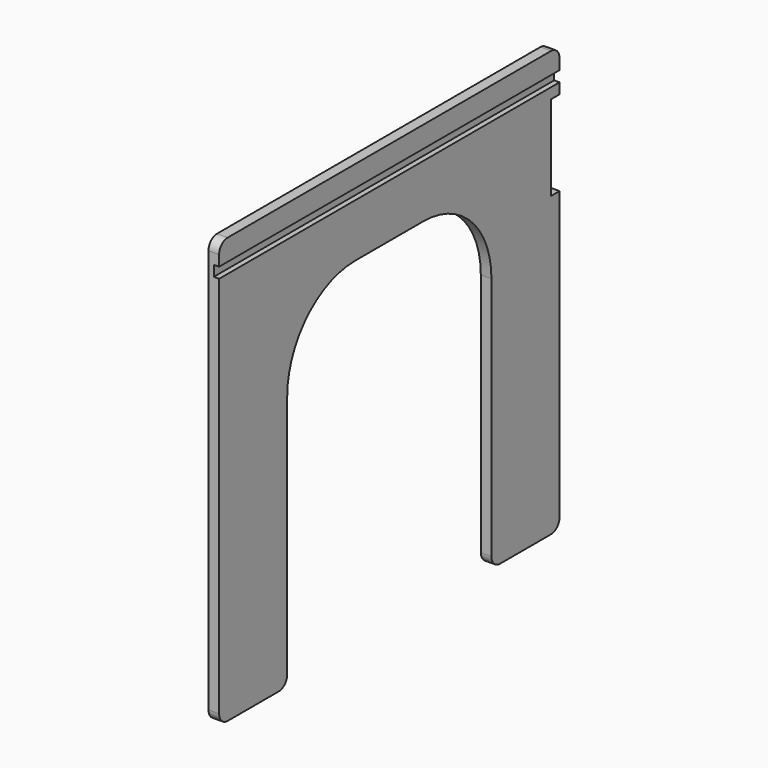
from build123d import *

# Parameters (mm, degrees)
F1_DEPTH = 12.7
F2_W     = 508
F2_H     = 12.7
F3_DEPTH = 6.35


with BuildPart() as f1:
    # F0 (on Right) → F1 (new body)
    with BuildSketch(Plane.YZ):
        with BuildLine():
            ThreePointArc((-101.6, 12.7), (-97.880256, 3.719744), (-88.9, 0))
            Line((-88.9, 0), (-12.7, 0))
            ThreePointArc((-12.7, 0), (-3.719744, 3.719744), (0, 12.7))
            Line((0, 12.7), (0, 304.8))
            ThreePointArc((0, 304.8), (29.757951, 376.642049), (101.6, 406.4))
            Line((101.6, 406.4), (203.2, 406.4))
            ThreePointArc((203.2, 406.4), (275.042049, 376.642049), (304.8, 304.8))
            Line((304.8, 304.8), (304.8, 12.7))
            ThreePointArc((304.8, 12.7), (308.519744, 3.719744), (317.5, 0))
            Line((317.5, 0), (393.7, 0))
            ThreePointArc((393.7, 0), (402.680256, 3.719744), (406.4, 12.7))
            Line((406.4, 12.7), (406.4, 355.6))
            Line((406.4, 355.6), (393.7, 355.6))
            Line((393.7, 355.6), (393.7, 457.2))
            Line((393.7, 457.2), (406.4, 457.2))
            Line((406.4, 457.2), (406.4, 495.3))
            ThreePointArc((406.4, 495.3), (402.680256, 504.280256), (393.7, 508))
            Line((393.7, 508), (-88.9, 508))
            ThreePointArc((-88.9, 508), (-97.880256, 504.280256), (-101.6, 495.3))
            Line((-101.6, 495.3), (-101.6, 12.7))
        make_face()
    extrude(amount=F1_DEPTH)

    # F2 (on face) → F3 (cut)
    with BuildSketch(Plane.YZ.offset(12.7)):
        with Locations((152.4, 476.25)):
            Rectangle(F2_W, F2_H)
    extrude(amount=-F3_DEPTH, mode=Mode.SUBTRACT)


solid = f1.part
